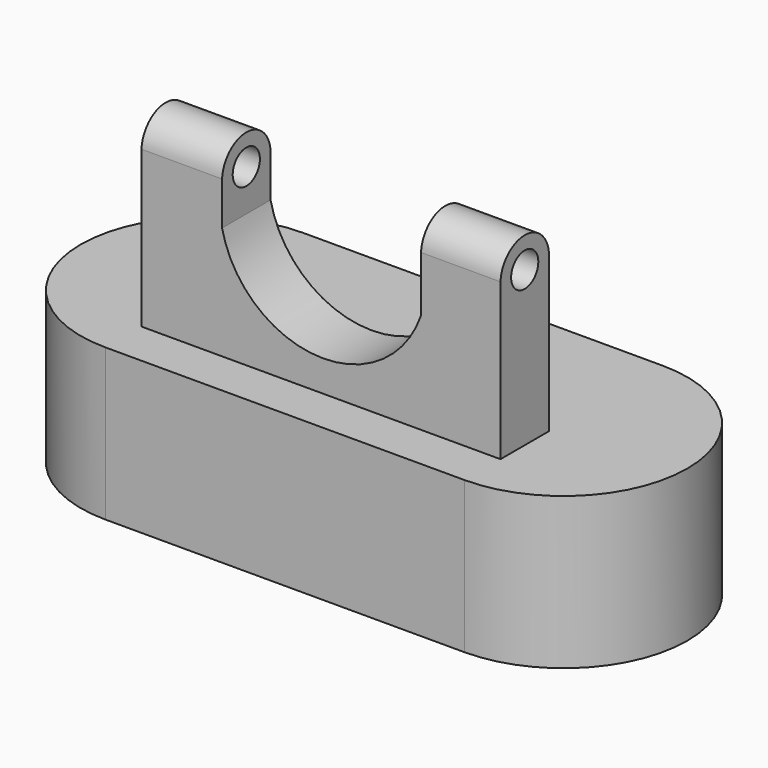
from build123d import *

# Parameters (mm, degrees)
F1_DEPTH  = 25.4
F3_DEPTH  = 5.08
F5_DEPTH  = 5.08
F7_DEPTH  = 80.913372
F8_R      = 2.847327
F9_DEPTH  = 80.913372
F11_DEPTH = 25.4
F12_DEPTH = 25.4


with BuildPart() as f1:
    # F0 (on Top) → F1 (new body)
    with BuildSketch(Plane.XY):
        with BuildLine():
            Line((29.77816, 28.875791), (-30.379737, 28.875791))
            ThreePointArc((-30.379737, 28.875791), (-51.134211, 8.121316), (-30.379737, -12.633159))
            Line((-30.379737, -12.633159), (29.77816, -12.633159))
            ThreePointArc((29.77816, -12.633159), (50.532635, 8.121316), (29.77816, 28.875791))
        make_face()
    extrude(amount=F1_DEPTH)

    # F2 (on Front) → F3 (join)
    with BuildSketch(Plane.XZ):
        with BuildLine():
            Line((-30.379737, 59.542328), (-30.379737, 25.4))
            Line((-30.379737, 25.4), (29.77816, 25.4))
            Line((29.77816, 25.4), (29.77816, 59.542328))
            Line((29.77816, 59.542328), (15.948839, 59.542328))
            ThreePointArc((15.948839, 59.542328), (-0.531627, 43.41897), (-17.012093, 59.542328))
            Line((-17.012093, 59.542328), (-30.379737, 59.542328))
        make_face()
    extrude(amount=-F3_DEPTH)

    # F4 (on face) → F5 (join)
    with BuildSketch(Plane.XZ):
        with BuildLine():
            Line((-30.379737, 59.542328), (-30.379737, 25.4))
            Line((-30.379737, 25.4), (29.77816, 25.4))
            Line((29.77816, 25.4), (29.77816, 59.542328))
            Line((29.77816, 59.542328), (15.948839, 59.542328))
            ThreePointArc((15.948839, 59.542328), (-0.531627, 43.41897), (-17.012093, 59.542328))
            Line((-17.012093, 59.542328), (-30.379737, 59.542328))
        make_face()
        with BuildLine():
            Line((-30.379737, 59.542328), (-30.379737, 25.4))
            Line((-30.379737, 25.4), (29.77816, 25.4))
            Line((29.77816, 25.4), (29.77816, 59.542328))
            Line((29.77816, 59.542328), (15.948839, 59.542328))
            ThreePointArc((15.948839, 59.542328), (-0.531627, 43.41897), (-17.012093, 59.542328))
            Line((-17.012093, 59.542328), (-30.379737, 59.542328))
        make_face()
    extrude(amount=F5_DEPTH)

    # F6 (on face) → F7 (cut, through all)
    with BuildSketch(Plane.YZ.offset(29.77816)):
        with BuildLine():
            Line((5.08, 51.302094), (5.08, 59.542328))
            Line((5.08, 59.542328), (-5.08, 59.542328))
            Line((-5.08, 59.542328), (-5.08, 51.567905))
            ThreePointArc((-5.08, 51.567905), (0.129474, 56.383832), (5.08, 51.302094))
        make_face()
    extrude(amount=-F7_DEPTH, mode=Mode.SUBTRACT)

    # F8 (on face) → F9 (cut, through all)
    with BuildSketch(Plane.YZ.offset(29.77816)):
        with Locations((-0.003477, 51.302094)):
            Circle(F8_R)
    extrude(amount=-F9_DEPTH, mode=Mode.SUBTRACT)

    # F10 (on Front) → F11 (cut)
    with BuildSketch(Plane.XZ):
        with BuildLine():
            Line((16.466387, 42.275124), (16.466387, 56.385571))
            Line((16.466387, 56.385571), (-16.873172, 56.385571))
            Line((-16.873172, 56.385571), (-16.873172, 44.329444))
            ThreePointArc((-16.873172, 44.329444), (-0.983531, 30.641417), (16.466387, 42.275124))
        make_face()
    extrude(amount=F11_DEPTH, mode=Mode.SUBTRACT)

    # F10 (on Front) → F12 (cut)
    with BuildSketch(Plane.XZ):
        with BuildLine():
            Line((16.466387, 42.275124), (16.466387, 56.385571))
            Line((16.466387, 56.385571), (-16.873172, 56.385571))
            Line((-16.873172, 56.385571), (-16.873172, 44.329444))
            ThreePointArc((-16.873172, 44.329444), (-0.983531, 30.641417), (16.466387, 42.275124))
        make_face()
    extrude(amount=-F12_DEPTH, mode=Mode.SUBTRACT)


solid = f1.part
